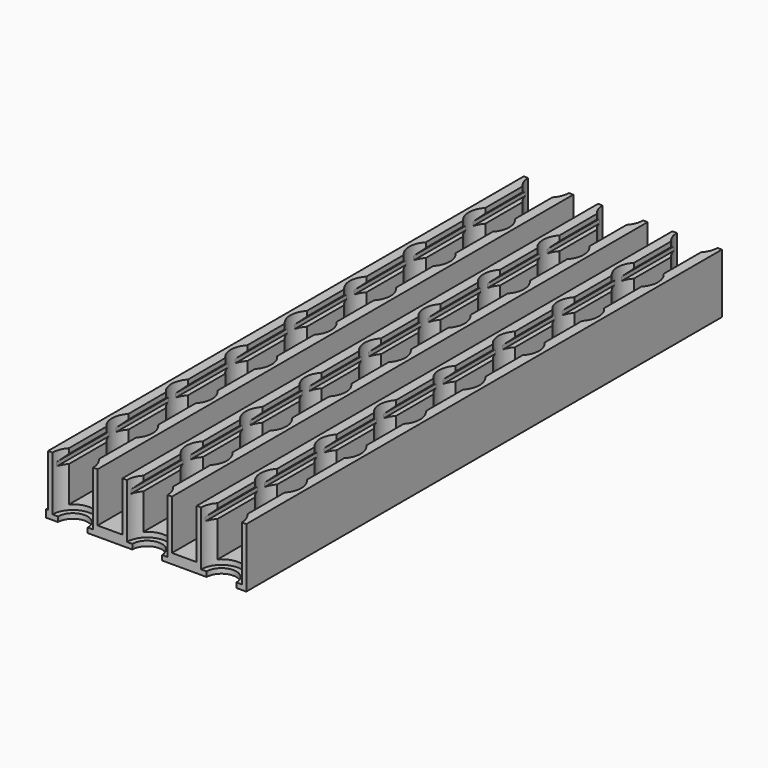
from build123d import *

# Parameters (mm, degrees)
PAD_DEPTH           = 120
SKETCH001_W         = 40
SKETCH001_H         = 120
PAD001_DEPTH        = 2
LINEARPATTERN_COUNT = 3
LINEARPATTERN_PITCH = 15
HOLE_D              = 6
HOLE_DEPTH          = 15
HOLE_CBORE_D        = 8.2
HOLE_CBORE_DEPTH    = 11
SKETCH017_W         = 1.5
SKETCH017_H         = 10
PAD009_DEPTH        = 0.4


with BuildPart() as part:
    # Sketch → Pad (new body)
    with BuildSketch(Plane.XZ):
        Polygon((5, -6), (5, 6), (3, 6), (3, 5), (4, 4), (4, 3.2), (3, 3.2), (3, -4), (-3, -4), (-3, 3.2), (-4, 3.2), (-4, 4), (-3, 5), (-3, 6), (-5, 6), (-5, -6), align=None)
    pad = extrude(amount=PAD_DEPTH)

    # Sketch001 (on DatumPlane) → Pad001 (join)
    with BuildSketch(Plane.XY.offset(-6)):
        with Locations((15, -60)):
            Rectangle(SKETCH001_W, SKETCH001_H)
    extrude(amount=PAD001_DEPTH)

    # LinearPattern: Pad ×3
    with Locations(*[(i * LINEARPATTERN_PITCH, 0, 0) for i in range(1, LINEARPATTERN_COUNT)]):
        add(pad)

    # Hole
    with Locations(Plane(origin=(-15, -200.5, 6), x_dir=(1, 0, 0), z_dir=(0, 0, 1))):
        with Locations((15, 35.5), (45, 35.5), (75, 35.5), (15, 65.5), (45, 65.5), (75, 65.5), (30, 20.5), (60, 20.5), (60, 50.5), (30, 50.5), (90, 50.5), (105, 65.5), (90, 20.5), (105, 35.5), (30, 80.5), (60, 80.5), (90, 80.5), (15, 95.5), (45, 95.5), (75, 95.5), (105, 95.5), (30, 110.5), (60, 110.5), (90, 110.5), (15, 125.5), (45, 125.5), (75, 125.5), (105, 125.5), (15, 155.5), (45, 155.5), (75, 155.5), (60, 140.5), (30, 140.5), (90, 140.5), (105, 155.5), (30, 170.5), (60, 170.5), (90, 170.5), (15, 185.5), (45, 185.5), (75, 185.5), (105, 185.5), (30, 200.5), (60, 200.5), (90, 200.5), (15, 215.5), (45, 215.5), (75, 215.5), (105, 215.5), (120, 50.5), (120, 20.5), (120, 80.5), (120, 110.5), (120, 140.5), (120, 170.5), (120, 200.5), (0, 50.5), (0, 20.5), (0, 80.5), (0, 110.5), (0, 140.5), (0, 170.5), (0, 200.5), (15, 20.5), (45, 20.5), (75, 20.5), (15, 50.5), (45, 50.5), (75, 50.5), (30, 5.5), (60, 5.5), (60, 35.5), (30, 35.5), (90, 35.5), (105, 50.5), (90, 5.5), (105, 20.5), (30, 65.5), (60, 65.5), (90, 65.5), (15, 80.5), (45, 80.5), (75, 80.5), (105, 80.5), (30, 95.5), (60, 95.5), (90, 95.5), (15, 110.5), (45, 110.5), (75, 110.5), (105, 110.5), (15, 140.5), (45, 140.5), (75, 140.5), (60, 125.5), (30, 125.5), (90, 125.5), (105, 140.5), (30, 155.5), (60, 155.5), (90, 155.5), (15, 170.5), (45, 170.5), (75, 170.5), (105, 170.5), (30, 185.5), (60, 185.5), (90, 185.5), (15, 200.5), (45, 200.5), (75, 200.5), (105, 200.5), (120, 35.5), (120, 5.5), (120, 65.5), (120, 95.5), (120, 125.5), (120, 155.5), (120, 185.5), (0, 35.5), (0, 5.5), (0, 65.5), (0, 95.5), (0, 125.5), (0, 155.5), (0, 185.5)):
            CounterBoreHole(HOLE_D / 2, HOLE_CBORE_D / 2, HOLE_CBORE_DEPTH, depth=HOLE_DEPTH)

    # Sketch017 (on DatumPlane) → Pad009 (join)
    with BuildSketch(Plane(origin=(-5, 0, 0), x_dir=(0, 0, -1), z_dir=(-1, 0, 0))):
        with Locations((5.25, 115)):
            Rectangle(SKETCH017_W, SKETCH017_H)
    extrude(amount=PAD009_DEPTH)


with BuildPart() as part_1:
    # Body placement: moved
    add(part.part.moved(Location((61.5, -36, 9))))


solid = part_1.part
